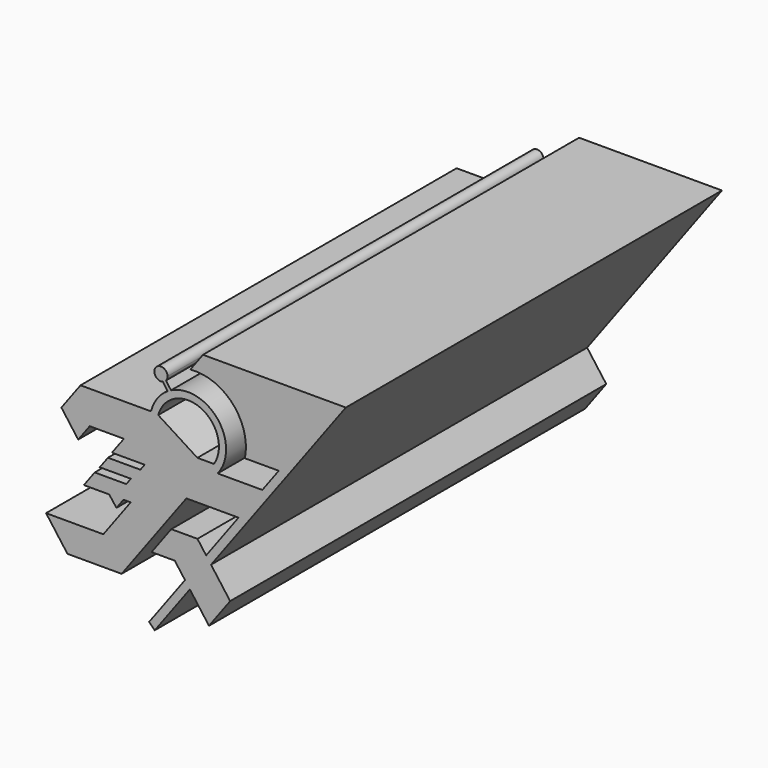
from build123d import *

# Parameters (mm, degrees)
F1_DEPTH = 600


with BuildPart() as f1:
    # F0 (on Front) → F1 (new body)
    with BuildSketch(Plane.XZ):
        Polygon((-57.0161717128, 0), (-135, 0), (-150.1679810622, -20.4983499457), (-155.6347784559, -27.8863026074), (-165.3359621243, -40.9966998915), (-96.9383139207, -40.9966998915), (-30.3359621243, -40.9966998915), (0, 0), align=None)
        with BuildLine():
            Line((-150.1679810622, -20.4983499457), (-135, 0))
            Line((-135, 0), (-57.0161717128, 0))
            ThreePointArc((-57.0161717128, 0), (-56.9075739834, 61.0124300524), (-116.5067681147, 74.0686344498))
            ThreePointArc((-116.5067681147, 74.0686344498), (-118.6940510107, 72.9068001121), (-120.8193157857, 71.6350630594))
            ThreePointArc((-120.8193157857, 71.6350630594), (-134.2868225707, 58.9282400507), (-142.0255883167, 42.1071641426))
            Line((-142.0255883167, 42.1071641426), (-232.0590932336, 42.1071641426))
            Line((-232.0590932336, 42.1071641426), (-256.4444055904, 9.1523058673))
            Line((-256.4444055904, 9.1523058673), (-234.9909992313, -19.8403088568))
            Line((-234.9909992313, -19.8403088568), (-220.3099429607, 0))
            Line((-220.3099429607, 0), (-176.7144793644, 0))
            Line((-176.7144793644, 0), (-191.8824604265, -20.4983499457))
            Line((-191.8824604265, -20.4983499457), (-150.1679810622, -20.4983499457))
        make_face()
        with BuildLine():
            ThreePointArc((-132.8527878768, 40.9173611322), (-78.7209860622, 66.5720298878), (-61.7161940581, 9.132922604))
            Line((-61.7161940581, 9.132922604), (-82.854176665, 9.132922604))
            Line((-82.854176665, 9.132922604), (-132.8527878768, 40.9173611322))
        make_face(mode=Mode.SUBTRACT)
        Polygon((-57.0161717128, 0), (-135, 0), (-150.1679810622, -20.4983499457), (-155.6347784559, -27.8863026074), (-165.3359621243, -40.9966998915), (-96.9383139207, -40.9966998915), (-30.3359621243, -40.9966998915), (0, 0), align=None)
        Polygon((20.9851757958, 28.3598374347), (0, 0), (-30.3359621243, -40.9966998915), (-71.6739757792, -96.8618190849), (-65.4539629325, -105.2676840103), (106.5884042597, 127.2342312906), (94.1483785662, 127.2342312906), align=None)
        with BuildLine():
            ThreePointArc((-120.8193157857, 71.6350630594), (-118.6940510107, 72.9068001121), (-116.5067681147, 74.0686344498))
            Line((-116.5067681147, 74.0686344498), (-122.841415611, 83.044531927))
            ThreePointArc((-122.841415611, 83.044531927), (-124.6735165199, 81.3559804602), (-126.9215099137, 80.2815850499))
            Line((-126.9215099137, 80.2815850499), (-120.8193157857, 71.6350630594))
        make_face()
        Polygon((-165.3359621243, -40.9966998915), (-155.6347784559, -27.8863026074), (-197.0568264004, -27.8863026074), (-207.4885144694, -41.9839199295), (-167.8028032048, -41.9839199295), (-173.6653593057, -49.906709788), (-213.9235590781, -49.906709788), (-227.7684772045, -68.6170427956), (-195.4038739204, -68.6170427956), (-177.2415726766, -68.6170427956), (-168.0213273478, -68.6170427956), (-202.9398083687, -115.8066615462), (-275.9852580547, -115.8066615462), (-248.7127541929, -152.6633352041), (-179.5672774315, -152.6633352041), (-96.9383139207, -40.9966998915), align=None)
        with BuildLine():
            Line((-22.2512632608, 28.3598374347), (20.9851757958, 28.3598374347))
            Line((20.9851757958, 28.3598374347), (94.1483785662, 127.2342312906))
            Line((94.1483785662, 127.2342312906), (-75.7271274924, 127.2342312906))
            Line((-75.7271274924, 127.2342312906), (-91.8894008887, 105.3921723746))
            ThreePointArc((-91.8894008887, 105.3921723746), (-37.6565854676, 84.4262603806), (-22.2512632608, 28.3598374347))
        make_face()
        with BuildLine():
            ThreePointArc((-126.9215099137, 80.2815850499), (-124.6735165199, 81.3559804602), (-122.841415611, 83.044531927))
            ThreePointArc((-122.841415611, 83.044531927), (-121.4714983754, 85.5077083569), (-120.9969189392, 88.285960634))
            ThreePointArc((-120.9969189392, 88.285960634), (-136.093489638, 93.26518765), (-126.9215099137, 80.2815850499))
        make_face()
        Polygon((-65.4539629325, -105.2676840103), (-71.6739757792, -96.8618190849), (-98.7022470538, -133.3884313442), (-92.4822342071, -141.7942962696), align=None)
        Polygon((-98.7022470538, -133.3884313442), (-71.6739757792, -96.8618190849), (-82.7770473941, -81.8568789745), (-116.2240564073, -81.8568789745), (-141.3440536534, -115.804606894), (-111.7135926971, -115.804606894), align=None)
        Polygon((-92.4822342071, -141.7942962696), (-98.7022470538, -133.3884313442), (-144.5443985877, -195.3405435308), (-137.2889383083, -202.3470815625), align=None)
        Polygon((-41.0452445793, -138.2541736742), (-65.4539629325, -105.2676840103), (-92.4822342071, -141.7942962696), (-68.0735158539, -174.7807859336), align=None)
        Polygon((-177.2415726766, -68.6170427956), (-195.4038739204, -68.6170427956), (-186.1869692802, -80.7060524821), align=None)
    extrude(amount=F1_DEPTH)


solid = f1.part
